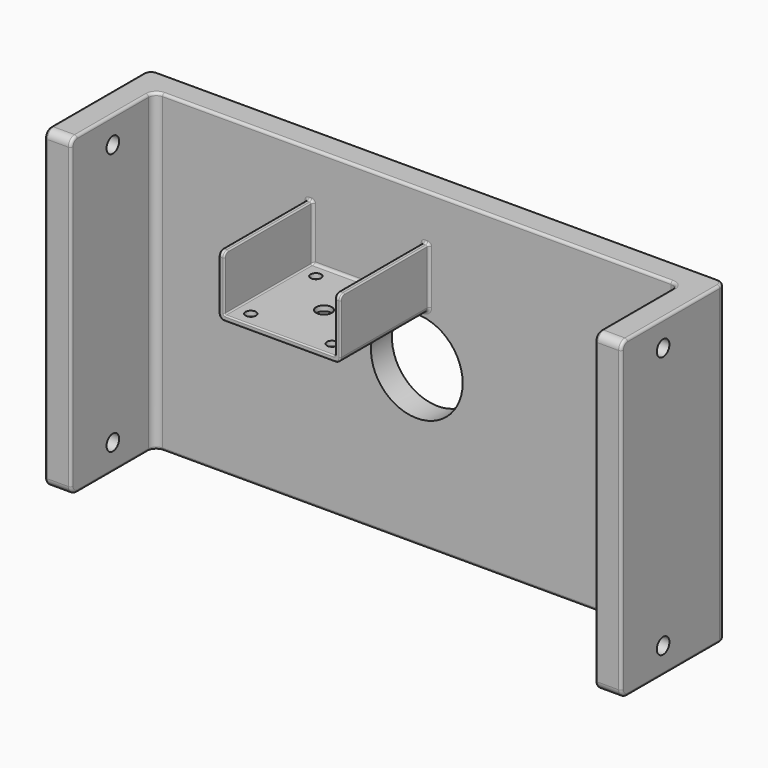
from build123d import *

# Parameters (mm, degrees)
PAD_DEPTH       = 60
SKETCH001_R     = 3
POCKET_DEPTH    = 110.001
FILLET_R        = 3
FILLET001_R     = 1
SKETCH004_R     = 1.4
POCKET002_DEPTH = 3
SKETCH002_R     = 17.5
POCKET003_DEPTH = 10.001
PAD001_DEPTH    = 42.3
SKETCH006_R     = 3
SKETCH006_R_2   = 2
POCKET004_DEPTH = 81.471
FILLET002_R     = 2
FILLET003_R     = 2
FILLET004_R     = 0.5
FILLET005_R     = 0.5
FILLET006_R     = 1


with BuildPart() as part:
    # Sketch → Pad (new body, symmetric)
    with BuildSketch(Plane.XY):
        Polygon((0, 40), (-100, 40), (-100, 0), (-110, 0), (-110, 50), (0, 50), align=None)
        Polygon((0, 40), (0, 50), align=None)
    extrude(amount=PAD_DEPTH, both=True)

    # Sketch001 (on Face3 of Pad) → Pocket (cut, through all)
    with BuildSketch(Plane(origin=(-110, 0, 0), x_dir=(0, -1, 0), z_dir=(-1, 0, 0))):
        with Locations((-20, -50)):
            Circle(SKETCH001_R)
        with Locations((-20, 50)):
            Circle(SKETCH001_R)
    extrude(amount=-POCKET_DEPTH, mode=Mode.SUBTRACT)

    # Fillet
    fillet_edges = [part.edges().sort_by_distance(p)[0] for p in [
        (-105, 0, -60),
        (-100, 40, 0),
        (-105, 0, 60),
        (-110, 50, 0),
    ]]
    fillet(fillet_edges, radius=FILLET_R)

    # Fillet001
    fillet001_edges = [part.edges().sort_by_distance(p)[0] for p in [
        (-110, 25, 60),
        (-100, 0, 0),
    ]]
    fillet(fillet001_edges, radius=FILLET001_R)

    # Mirrored: part across YZ


with BuildPart() as part_1:
    add(part.part)
    add(part.part.mirror(Plane.YZ))

    # Sketch004 (on Face48 of Mirrored) → Pocket002 (cut)
    with BuildSketch(Plane(origin=(0, 0, -60), x_dir=(1, 0, 0), z_dir=(0, 0, -1))):
        with Locations((-7, -45)):
            Circle(SKETCH004_R)
        with Locations((7, -45)):
            Circle(SKETCH004_R)
    extrude(amount=-POCKET002_DEPTH, mode=Mode.SUBTRACT)

    # Sketch002 (on Face1 of Fillet001) → Pocket003 (cut, through all)
    with BuildSketch(Plane.XZ.offset(-40)):
        Circle(SKETCH002_R)
    extrude(amount=-POCKET003_DEPTH, mode=Mode.SUBTRACT)

    # Sketch005 (on Face34 of Pocket003) → Pad001 (join)
    with BuildSketch(Plane.XZ.offset(-40)):
        Polygon((2.65, 42.47), (4.65, 42.47), (4.65, 19.47), (-41.65, 19.47), (-41.65, 42.47), (-39.65, 42.47), (-39.65, 21.47), (2.65, 21.47), align=None)
    extrude(amount=PAD001_DEPTH)

    # Sketch006 (on Face61 of Pad001) → Pocket004 (cut, through all)
    with BuildSketch(Plane.XY.offset(21.47)):
        with Locations((-18.5, 18.85)):
            Circle(SKETCH006_R)
        with Locations((-34.01, 34.36)):
            Circle(SKETCH006_R_2)
        with Locations((-2.99, 34.36)):
            Circle(SKETCH006_R_2)
        with Locations((-2.99, 3.34)):
            Circle(SKETCH006_R_2)
        with Locations((-34.01, 3.34)):
            Circle(SKETCH006_R_2)
    extrude(amount=-POCKET004_DEPTH, mode=Mode.SUBTRACT)

    # Fillet002
    fillet002_edges = [part_1.edges().sort_by_distance(p)[0] for p in [
        (4.65, 18.85, 19.47),
        (-41.65, 18.85, 19.47),
    ]]
    fillet(fillet002_edges, radius=FILLET002_R)

    # Fillet003
    fillet003_edges = [part_1.edges().sort_by_distance(p)[0] for p in [
        (-40.65, -2.3, 42.47),
        (3.65, -2.3, 42.47),
    ]]
    fillet(fillet003_edges, radius=FILLET003_R)

    # Fillet004
    fillet004_edges = [part_1.edges().sort_by_distance(p)[0] for p in [
        (-39.65, 18.85, 21.47),
        (2.65, 18.85, 21.47),
    ]]
    fillet(fillet004_edges, radius=FILLET004_R)

    # Fillet005
    fillet005_edges = [part_1.edges().sort_by_distance(p)[0] for p in [
        (-39.65, 19.85, 42.47),
        (-41.65, 19.85, 42.47),
    ]]
    fillet(fillet005_edges, radius=FILLET005_R)

    # Fillet006
    fillet006_edges = [part_1.edges().sort_by_distance(p)[0] for p in [
        (-39.65, 40, 31.97),
    ]]
    fillet(fillet006_edges, radius=FILLET006_R)


solid = part_1.part
